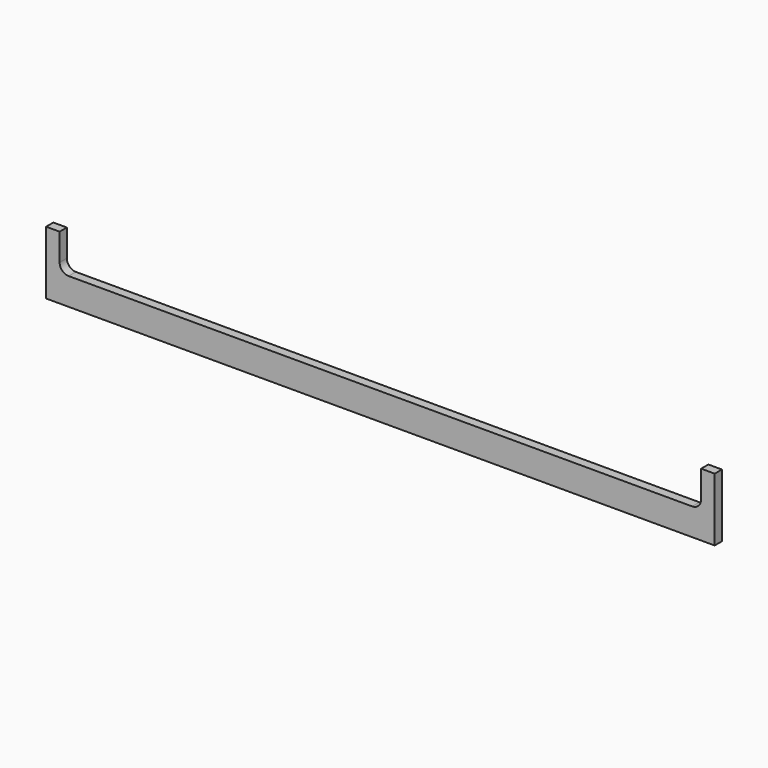
from build123d import *

# Parameters (mm, degrees)
F1_DEPTH = 10


with BuildPart() as f1:
    # F0 (on Front) → F1 (new body)
    with BuildSketch(Plane.XZ):
        with BuildLine():
            Line((0, -30), (0, 0))
            Line((0, 0), (-345, 0))
            ThreePointArc((-345, 0), (-352.071068, 2.928932), (-355, 10))
            Line((-355, 10), (-355, 40))
            Line((-355, 40), (-370, 40))
            Line((-370, 40), (-370, -30))
            Line((-370, -30), (0, -30))
        make_face()
    extrude(amount=F1_DEPTH)

    # F2: F1 across face


with BuildPart() as f1_1:
    add(f1.part)
    add(f1.part.mirror(Plane(origin=(0, -5, -15), x_dir=(0, 1, 0), z_dir=(1, 0, 0))))


solid = f1_1.part
